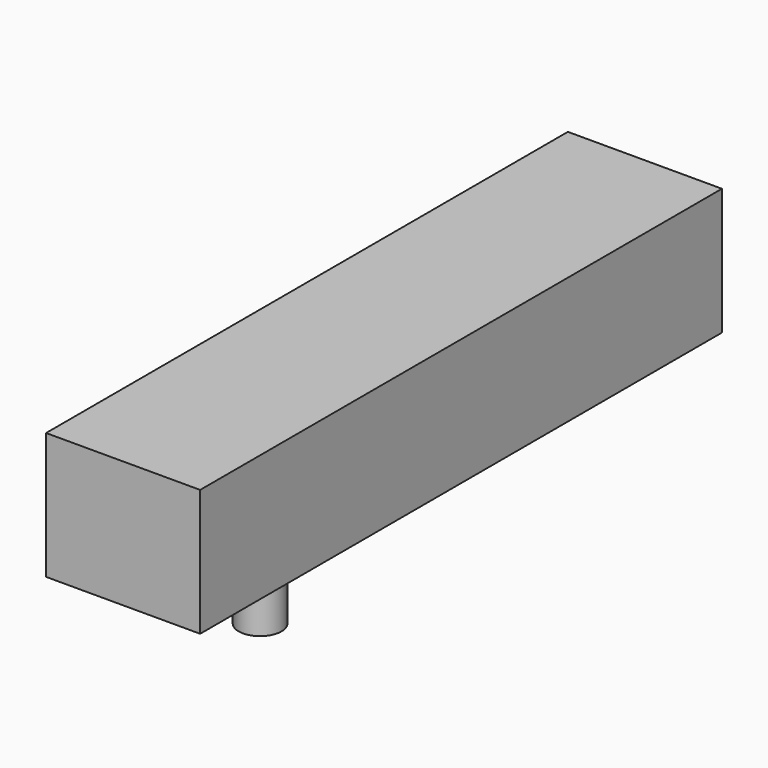
from build123d import *

# Parameters (mm, degrees)
F0_W     = 22.86
F0_H     = 96.774
F1_DEPTH = 18.796
F2_R     = 4.7625
F3_DEPTH = 93.98
F4_R     = 3.175
F5_DEPTH = 12.7


with BuildPart() as f1:
    # F0 (on Top) → F1 (new body)
    with BuildSketch(Plane.XY):
        Rectangle(F0_W, F0_H)
    extrude(amount=F1_DEPTH)

    # F2 (on face) → F3 (cut)
    with BuildSketch(Plane(origin=(0, 48.387, 0), x_dir=(-1, 0, 0), z_dir=(0, 1, 0))):
        with Locations((0, 9.398)):
            Circle(F2_R)
    extrude(amount=-F3_DEPTH, mode=Mode.SUBTRACT)

    # F4 (on face) → F5 (join)
    with BuildSketch(Plane(origin=(0, 0, 0), x_dir=(1, 0, 0), z_dir=(0, 0, -1))):
        with Locations((0, 22.987)):
            Circle(F4_R)
    extrude(amount=F5_DEPTH)


solid = f1.part
